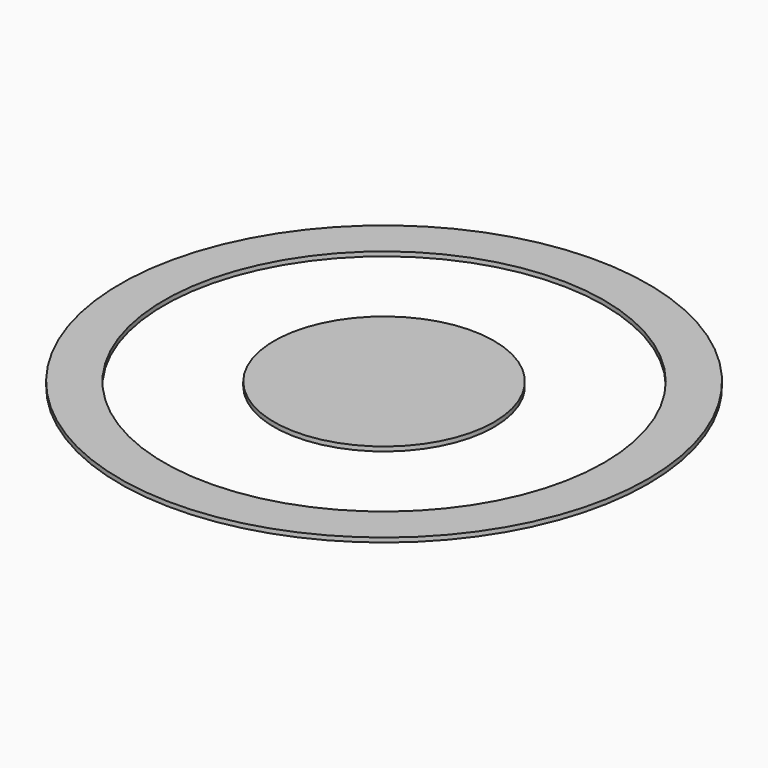
from build123d import *

# Parameters (mm, degrees)
F0_R     = 60
F0_R_2   = 50
F1_DEPTH = 1
F0_R_3   = 25


with BuildPart() as f1:
    # F0 (on Top) → F1 (new body)
    with BuildSketch(Plane.XY):
        Circle(F0_R)
        Circle(F0_R_2, mode=Mode.SUBTRACT)
        Circle(F0_R)
        Circle(F0_R_2, mode=Mode.SUBTRACT)
    extrude(amount=F1_DEPTH)


with BuildPart() as f1b:
    # F0 (on Top) → F1, piece 2 (new body)
    with BuildSketch(Plane.XY):
        Circle(F0_R_3)
    extrude(amount=F1_DEPTH)


solid = Compound([f1.part, f1b.part])
